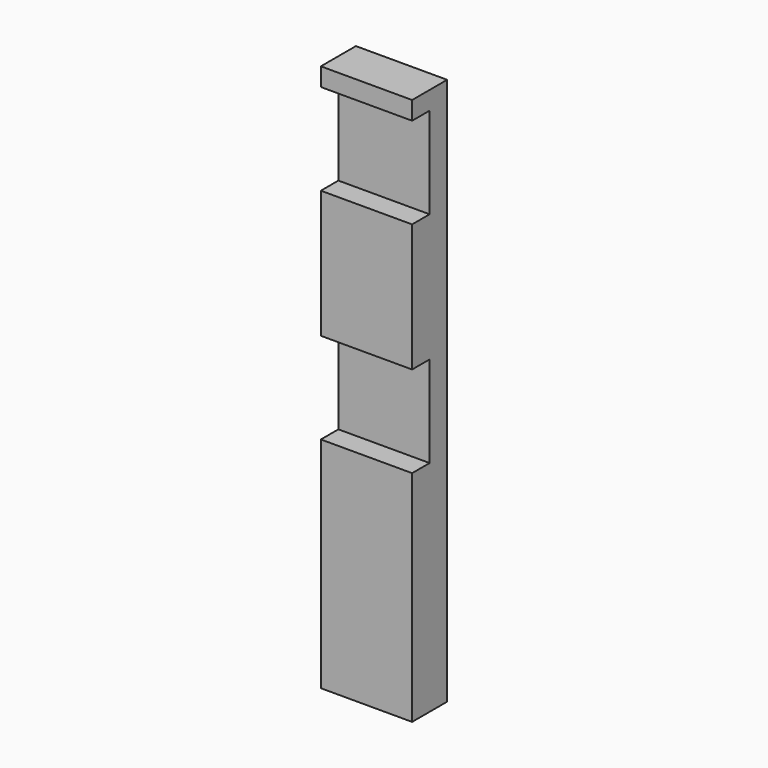
from build123d import *

# Parameters (mm, degrees)
F0_W     = 50
F0_H     = 24
F1_DEPTH = 300
F2_W     = 50
F2_H     = 50
F3_DEPTH = 12


with BuildPart() as f1:
    # F0 (on Top) → F1 (new body)
    with BuildSketch(Plane.XY):
        Rectangle(F0_W, F0_H)
    extrude(amount=F1_DEPTH)

    # F2 (on face) → F3 (cut)
    with BuildSketch(Plane.XZ.offset(12)):
        with Locations((0, 265)):
            Rectangle(F2_W, F2_H)
        with Locations((0, 145)):
            Rectangle(F2_W, F2_H)
    extrude(amount=-F3_DEPTH, mode=Mode.SUBTRACT)


solid = f1.part
